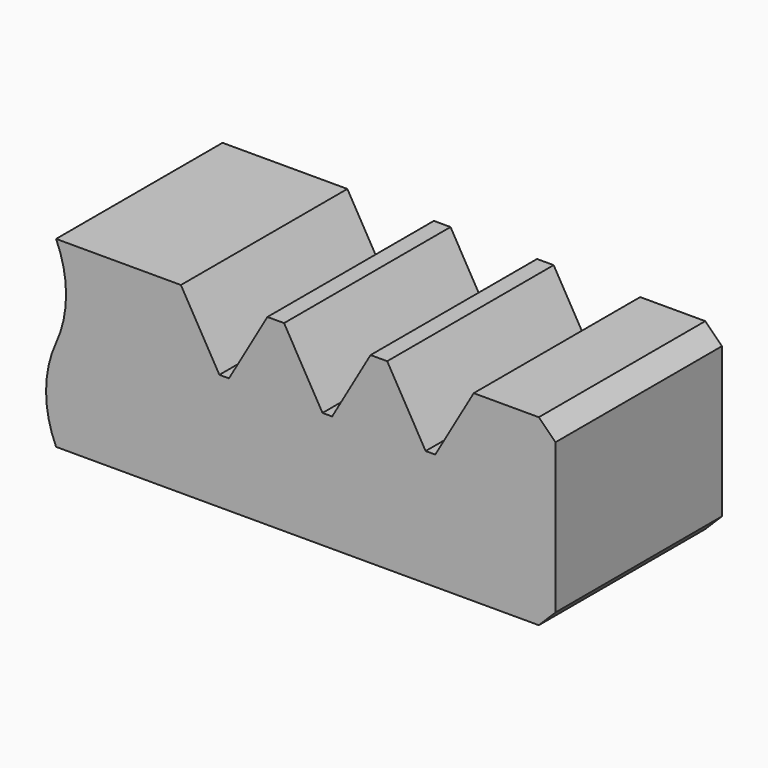
from build123d import *

# Parameters (mm, degrees)
F1_DEPTH = 25


with BuildPart() as f1:
    # F0 (on Front) → F1 (new body)
    with BuildSketch(Plane.XZ):
        with BuildLine():
            Line((107.782909, 33.212863), (92.782909, 33.212863))
            ThreePointArc((92.782909, 33.212863), (93.983107, 27.712863), (92.782909, 22.212863))
            ThreePointArc((92.782909, 22.212863), (91.58271, 16.712863), (92.782909, 11.212863))
            Line((92.782909, 11.212863), (150.782909, 11.212863))
            Line((150.782909, 11.212863), (152.782909, 13.212863))
            Line((152.782909, 13.212863), (152.782909, 22.212863))
            Line((152.782909, 22.212863), (152.782909, 31.212863))
            Line((152.782909, 31.212863), (150.782909, 33.212863))
            Line((150.782909, 33.212863), (142.959823, 33.212863))
            Line((142.959823, 33.212863), (138.341021, 25.212863))
            Line((138.341021, 25.212863), (137.186321, 25.212863))
            Line((137.186321, 25.212863), (132.567519, 33.212863))
            Line((132.567519, 33.212863), (131.567519, 33.212863))
            Line((131.567519, 33.212863), (130.567519, 33.212863))
            Line((130.567519, 33.212863), (125.948716, 25.212863))
            Line((125.948716, 25.212863), (124.794016, 25.212863))
            Line((124.794016, 25.212863), (120.175214, 33.212863))
            Line((120.175214, 33.212863), (119.175214, 33.212863))
            Line((119.175214, 33.212863), (118.175214, 33.212863))
            Line((118.175214, 33.212863), (113.556412, 25.212863))
            Line((113.556412, 25.212863), (112.979061, 24.212863))
            Line((112.979061, 24.212863), (112.401711, 25.212863))
            Line((112.401711, 25.212863), (107.782909, 33.212863))
        make_face()
        Polygon((113.556412, 25.212863), (112.401711, 25.212863), (112.979061, 24.212863), align=None)
        with BuildLine():
            Line((107.782909, 33.212863), (92.782909, 33.212863))
            ThreePointArc((92.782909, 33.212863), (93.983107, 27.712863), (92.782909, 22.212863))
            ThreePointArc((92.782909, 22.212863), (91.58271, 16.712863), (92.782909, 11.212863))
            Line((92.782909, 11.212863), (150.782909, 11.212863))
            Line((150.782909, 11.212863), (152.782909, 13.212863))
            Line((152.782909, 13.212863), (152.782909, 22.212863))
            Line((152.782909, 22.212863), (152.782909, 31.212863))
            Line((152.782909, 31.212863), (150.782909, 33.212863))
            Line((150.782909, 33.212863), (142.959823, 33.212863))
            Line((142.959823, 33.212863), (138.341021, 25.212863))
            Line((138.341021, 25.212863), (137.186321, 25.212863))
            Line((137.186321, 25.212863), (132.567519, 33.212863))
            Line((132.567519, 33.212863), (131.567519, 33.212863))
            Line((131.567519, 33.212863), (130.567519, 33.212863))
            Line((130.567519, 33.212863), (125.948716, 25.212863))
            Line((125.948716, 25.212863), (124.794016, 25.212863))
            Line((124.794016, 25.212863), (120.175214, 33.212863))
            Line((120.175214, 33.212863), (119.175214, 33.212863))
            Line((119.175214, 33.212863), (118.175214, 33.212863))
            Line((118.175214, 33.212863), (113.556412, 25.212863))
            Line((113.556412, 25.212863), (112.979061, 24.212863))
            Line((112.979061, 24.212863), (112.401711, 25.212863))
            Line((112.401711, 25.212863), (107.782909, 33.212863))
        make_face()
    extrude(amount=F1_DEPTH)


solid = f1.part
